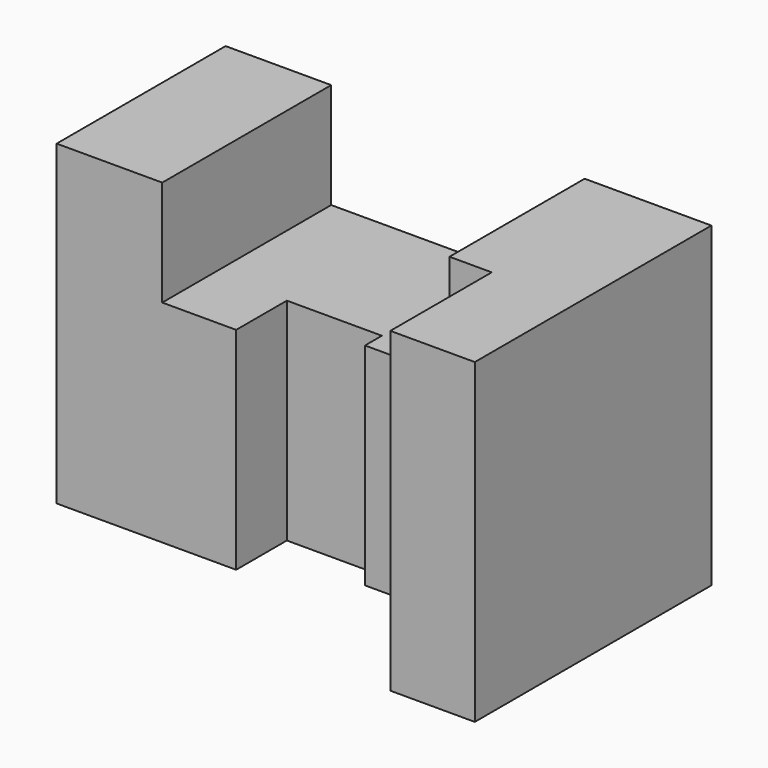
from build123d import *

# Parameters (mm, degrees)
F0_W     = 25
F0_H     = 50
F1_DEPTH = 75
F2_DEPTH = 50
F3_DEPTH = 75


with BuildPart() as f1:
    # F0 (on Top) → F1 (new body)
    with BuildSketch(Plane.XY):
        with Locations((12.5, 25)):
            Rectangle(F0_W, F0_H)
    extrude(amount=F1_DEPTH)

    # F0 (on Top) → F2 (join)
    with BuildSketch(Plane.XY):
        Polygon((25, 50), (25, 0), (42.5, 0), (42.5, 15), (65, 15), (65, 10), (85, 10), (85, 50), align=None)
    extrude(amount=F2_DEPTH)

    # F0 (on Top) → F3 (join)
    with BuildSketch(Plane.XY):
        Polygon((115, 50), (85, 50), (85, 10), (95, 10), (95, -20), (115, -20), align=None)
    extrude(amount=F3_DEPTH)


solid = f1.part
